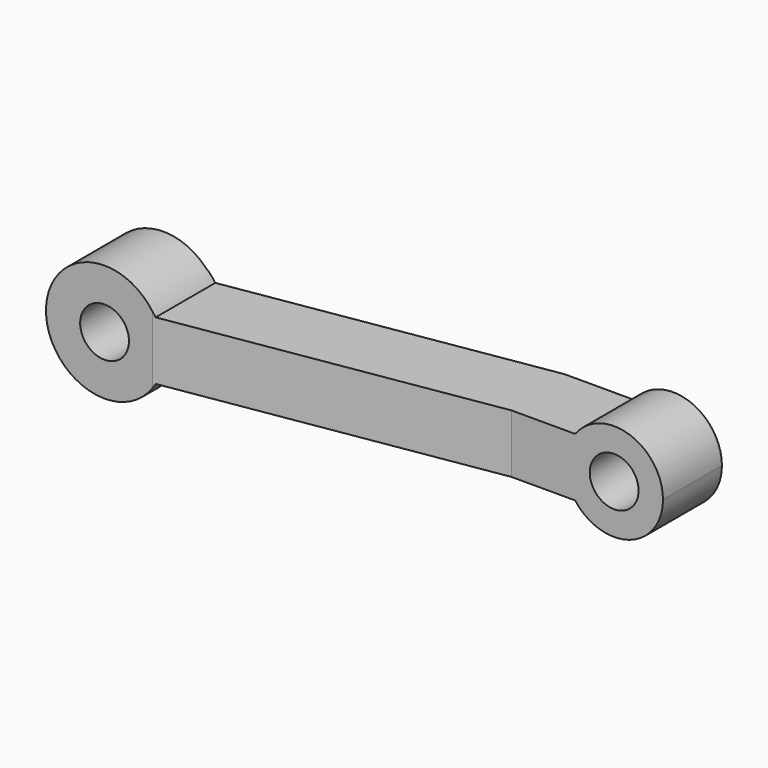
from build123d import *

# Parameters (mm, degrees)
F0_R     = 7.9375
F1_DEPTH = 23.368
F3_DEPTH = 25.4


with BuildPart() as f1:
    # F0 (on Front) → F1 (new body, symmetric)
    with BuildSketch(Plane.XZ):
        with BuildLine():
            ThreePointArc((16.497784, -9.525), (18.400887, -4.930503), (19.05, 0))
            ThreePointArc((19.05, 0), (18.400887, 4.930503), (16.497784, 9.525))
            ThreePointArc((16.497784, 9.525), (-19.05, 0), (16.497784, -9.525))
        make_face()
        Circle(F0_R, mode=Mode.SUBTRACT)
        with BuildLine():
            ThreePointArc((16.497784, 9.525), (18.400887, 4.930503), (19.05, 0))
            ThreePointArc((19.05, 0), (18.400887, -4.930503), (16.497784, -9.525))
            Line((16.497784, -9.525), (139.7, -9.525))
            ThreePointArc((139.7, -9.525), (136.525, 0), (139.7, 9.525))
            Line((139.7, 9.525), (16.497784, 9.525))
        make_face()
        with BuildLine():
            ThreePointArc((168.275, 0), (157.420116, 15.060347), (139.7, 9.525))
            ThreePointArc((139.7, 9.525), (136.525, 0), (139.7, -9.525))
            ThreePointArc((139.7, -9.525), (157.420116, -15.060347), (168.275, 0))
        make_face()
        with Locations((152.4, 0)):
            Circle(F0_R, mode=Mode.SUBTRACT)
    extrude(amount=F1_DEPTH, both=True)

    # F2 (on Top) → F3 (intersect, symmetric)
    with BuildSketch(Plane.XY):
        Polygon((-19.05, -23.368), (-19.05, -23.392219), (15.476332, -23.392219), (119.003983, -6.732617), (168.275, -6.732617), (168.275, 17.229946), (117.088285, 17.229946), (13.560635, 0.570344), (-19.05, 0.570344), (-19.05, -18.542036), align=None)
    extrude(amount=F3_DEPTH, both=True, mode=Mode.INTERSECT)


solid = f1.part
